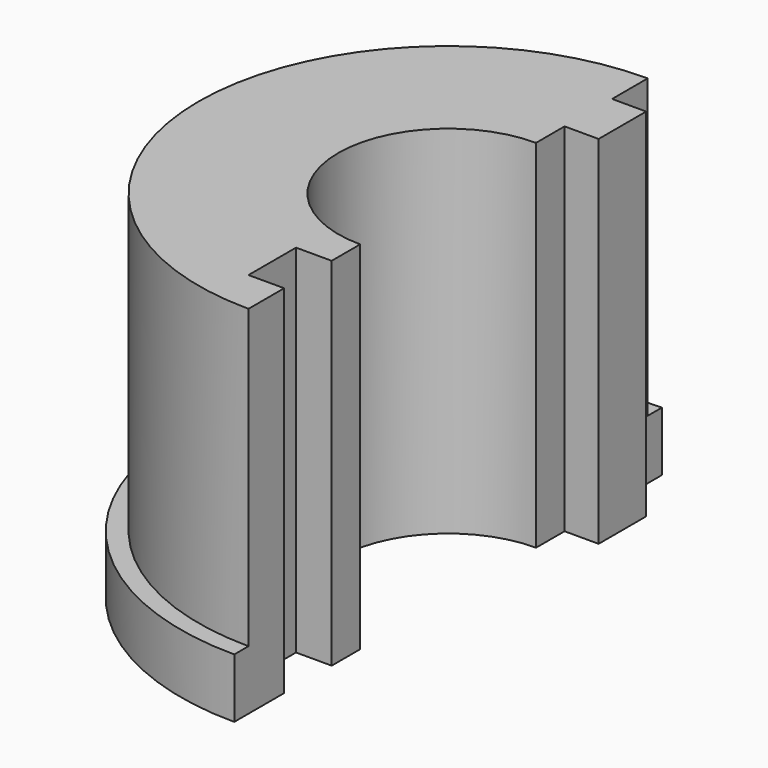
from build123d import *

# Parameters (mm, degrees)
F0_R     = 45
F0_R_2   = 18.5
F1_DEPTH = 10
F2_R     = 42
F2_R_2   = 18.5
F3_DEPTH = 50
F5_DEPTH = 79.80825


with BuildPart() as f1:
    # F0 (on Top) → F1 (new body)
    with BuildSketch(Plane.XY):
        Circle(F0_R)
        Circle(F0_R_2, mode=Mode.SUBTRACT)
    extrude(amount=F1_DEPTH)

    # F2 (on face) → F3 (join)
    with BuildSketch(Plane.XY.offset(10)):
        Circle(F2_R)
        Circle(F2_R_2, mode=Mode.SUBTRACT)
    extrude(amount=F3_DEPTH)

    # F4 (on face) → F5 (cut)
    with BuildSketch(Plane.XY.offset(60)):
        Polygon((64.068409, 63.324335), (0, 63.324335), (0, 34.5), (5.733575, 34.5), (5.733575, 24.5), (0, 24.5), (0, -24.5), (-6.004329, -24.5), (-6.004329, -34.5), (0, -34.5), (0, -52.819867), (64.068409, -52.819867), align=None)
        Polygon((64.068409, 63.324335), (0, 63.324335), (0, 34.5), (5.733575, 34.5), (5.733575, 24.5), (0, 24.5), (0, -24.5), (-6.004329, -24.5), (-6.004329, -34.5), (0, -34.5), (0, -52.819867), (64.068409, -52.819867), align=None)
    extrude(amount=-F5_DEPTH, mode=Mode.SUBTRACT)


solid = f1.part
